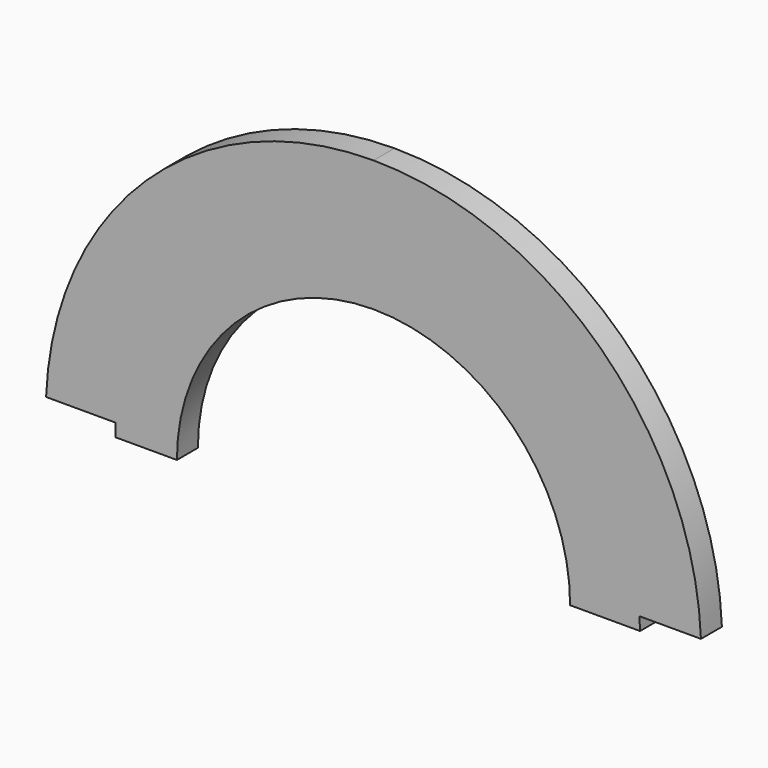
from build123d import *

# Parameters (mm, degrees)
F1_DEPTH = 2
F2_DEPTH = 2


with BuildPart() as f1:
    # F0 (on Front) → F1 (new body)
    with BuildSketch(Plane.XZ):
        with BuildLine():
            ThreePointArc((-15, 0), (-10.606602, 10.606602), (0, 15))
            ThreePointArc((0, 15), (10.606602, 10.606602), (15, 0))
            Line((15, 0), (20.334155, 0))
            Line((20.334155, 0), (20.285664, 0.984194))
            Line((20.285664, 0.984194), (24.98062, 0.984194))
            ThreePointArc((24.98062, 0.984194), (17.32621, 18.022276), (0, 25))
            ThreePointArc((0, 25), (-17.326013, 18.022466), (-24.980598, 0.984742))
            Line((-24.980598, 0.984742), (-19.665848, 0.984742))
            Line((-19.665848, 0.984742), (-19.665848, 0))
            Line((-19.665848, 0), (-15, 0))
        make_face()
    extrude(amount=F1_DEPTH)

    # F0 (on Front) → F2 (join)
    with BuildSketch(Plane.XZ):
        with BuildLine():
            ThreePointArc((-15, 0), (-10.606602, 10.606602), (0, 15))
            ThreePointArc((0, 15), (10.606602, 10.606602), (15, 0))
            Line((15, 0), (20.334155, 0))
            Line((20.334155, 0), (20.285664, 0.984194))
            Line((20.285664, 0.984194), (24.98062, 0.984194))
            ThreePointArc((24.98062, 0.984194), (17.32621, 18.022276), (0, 25))
            ThreePointArc((0, 25), (-17.326013, 18.022466), (-24.980598, 0.984742))
            Line((-24.980598, 0.984742), (-19.665848, 0.984742))
            Line((-19.665848, 0.984742), (-19.665848, 0))
            Line((-19.665848, 0), (-15, 0))
        make_face()
    extrude(amount=F2_DEPTH)


solid = f1.part
